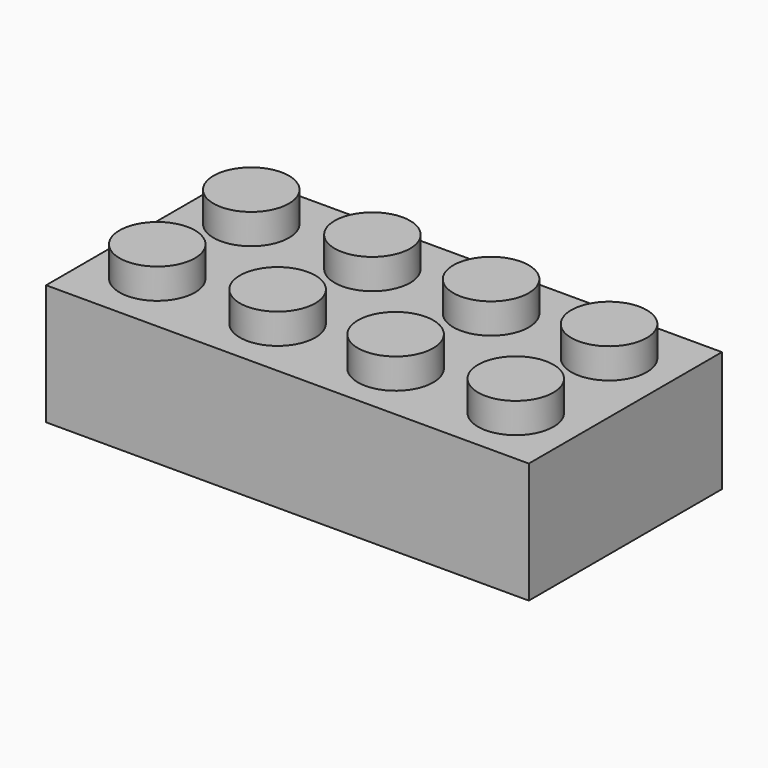
from build123d import *

# Parameters (mm, degrees)
F0_W     = 32
F0_H     = 16
F1_DEPTH = 8
F2_R     = 2.5
F3_DEPTH = 2
F4_T     = -1.5


with BuildPart() as f1:
    # F0 (on Top) → F1 (new body)
    with BuildSketch(Plane.XY):
        Rectangle(F0_W, F0_H)
    extrude(amount=F1_DEPTH)

    # F2 (on face) → F3 (join)
    with BuildSketch(Plane.XY.offset(8)):
        with Locations((-12, 4)):
            Circle(F2_R)
        with Locations((-3.9529362693, 3.9800377563)):
            Circle(F2_R)
        with Locations((3.9575416595, 3.9243297651)):
            Circle(F2_R)
        with Locations((11.8680195883, 3.8129147142)):
            Circle(F2_R)
        with Locations((-11.9748292491, -3.8190248888)):
            Circle(F2_R)
        with Locations((-3.9529362693, -3.8747326471)):
            Circle(F2_R)
        with Locations((3.9575416595, -3.9861481637)):
            Circle(F2_R)
        with Locations((11.9237266481, -3.9861481637)):
            Circle(F2_R)
    extrude(amount=F3_DEPTH)

    # F4
    f4_openings = [f1.faces().sort_by_distance(p)[0] for p in [
        (0, 0, 0),
    ]]
    offset(amount=F4_T, openings=f4_openings, kind=Kind.INTERSECTION)


solid = f1.part
